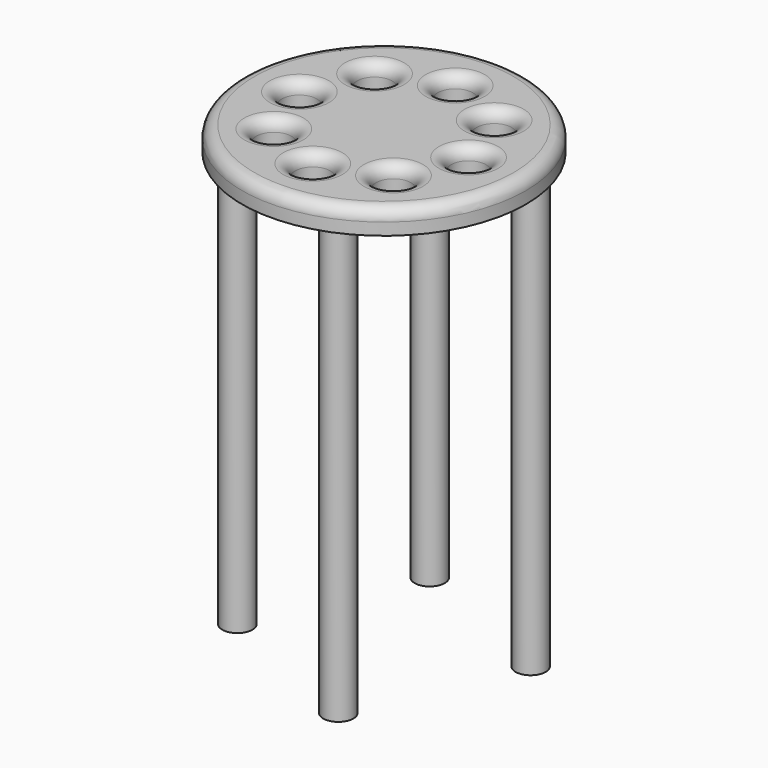
from build123d import *

# Parameters (mm, degrees)
F0_R     = 58.808981
F0_R_2   = 7.264629
F1_DEPTH = 10
F2_R     = 5
F3_R     = 6.247619
F4_DEPTH = 180
F5_R     = 5


with BuildPart() as f1:
    # F0 (on Top) → F1 (new body)
    with BuildSketch(Plane.XY):
        Circle(F0_R)
        with Locations((-0.898031, -35.775059)):
            Circle(F0_R_2, mode=Mode.SUBTRACT)
        with Locations((-25.93179, -24.661783)):
            Circle(F0_R_2, mode=Mode.SUBTRACT)
        with Locations((24.661783, -25.93179)):
            Circle(F0_R_2, mode=Mode.SUBTRACT)
        with Locations((35.775059, -0.898031)):
            Circle(F0_R_2, mode=Mode.SUBTRACT)
        with Locations((-35.775059, 0.898031)):
            Circle(F0_R_2, mode=Mode.SUBTRACT)
        with Locations((-24.661783, 25.93179)):
            Circle(F0_R_2, mode=Mode.SUBTRACT)
        with Locations((25.93179, 24.661783)):
            Circle(F0_R_2, mode=Mode.SUBTRACT)
        with Locations((0.898031, 35.775059)):
            Circle(F0_R_2, mode=Mode.SUBTRACT)
    extrude(amount=F1_DEPTH)

    # F2
    f2_edges = [f1.edges().sort_by_distance(p)[0] for p in [
        (-58.808981, 0, 10),
    ]]
    fillet(f2_edges, radius=F2_R)

    # F3 (on face) → F4 (join)
    with BuildSketch(Plane(origin=(0, 0, 0), x_dir=(1, 0, 0), z_dir=(0, 0, -1))):
        with Locations((18.10045, 46.294663)):
            Circle(F3_R)
        with Locations((-46.294663, 18.10045)):
            Circle(F3_R)
        with Locations((-18.10045, -46.294663)):
            Circle(F3_R)
        with Locations((46.294663, -18.10045)):
            Circle(F3_R)
    extrude(amount=F4_DEPTH)

    # F5
    f5_edges = [f1.edges().sort_by_distance(p)[0] for p in [
        (-53.808981, 0, 10),
        (-8.162659, -35.775059, 10),
        (-33.196419, -24.661783, 10),
        (17.397155, -25.93179, 10),
        (28.51043, -0.898031, 10),
        (-43.039687, 0.898031, 10),
        (-31.926412, 25.93179, 10),
        (18.667162, 24.661783, 10),
        (-6.366598, 35.775059, 10),
    ]]
    fillet(f5_edges, radius=F5_R)


solid = f1.part
